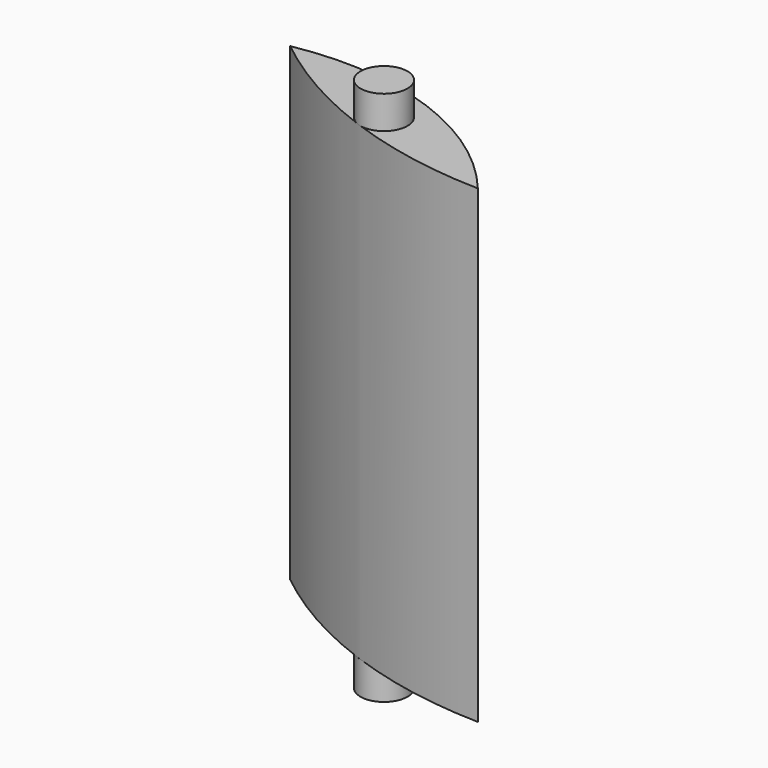
from build123d import *

# Parameters (mm, degrees)
PAD007_DEPTH = 50
SKETCH016_R  = 2.5
PAD008_DEPTH = 3.5
SKETCH017_R  = 2.5
PAD009_DEPTH = 3.5


with BuildPart() as part:
    # Sketch015 → Pad007 (new body)
    with BuildSketch(Plane.XY):
        with BuildLine():
            ThreePointArc((14.095389, 54.869698), (1.399981, 63.846416), (-14.095389, 65.130302))
            ThreePointArc((-14.095389, 65.130302), (-0.849311, 57.666538), (14.095389, 54.869698))
        make_face()
    extrude(amount=PAD007_DEPTH)

    # Sketch016 (on Face4 of Pad007) → Pad008 (join)
    with BuildSketch(Plane.XY.offset(50)):
        with Locations((0, 60)):
            Circle(SKETCH016_R)
    extrude(amount=PAD008_DEPTH)

    # Sketch017 (on Face3 of Pad008) → Pad009 (join)
    with BuildSketch(Plane(origin=(0, 0, 0), x_dir=(1, 0, 0), z_dir=(0, 0, -1))):
        with Locations((0, -60)):
            Circle(SKETCH017_R)
    extrude(amount=PAD009_DEPTH)


solid = part.part
